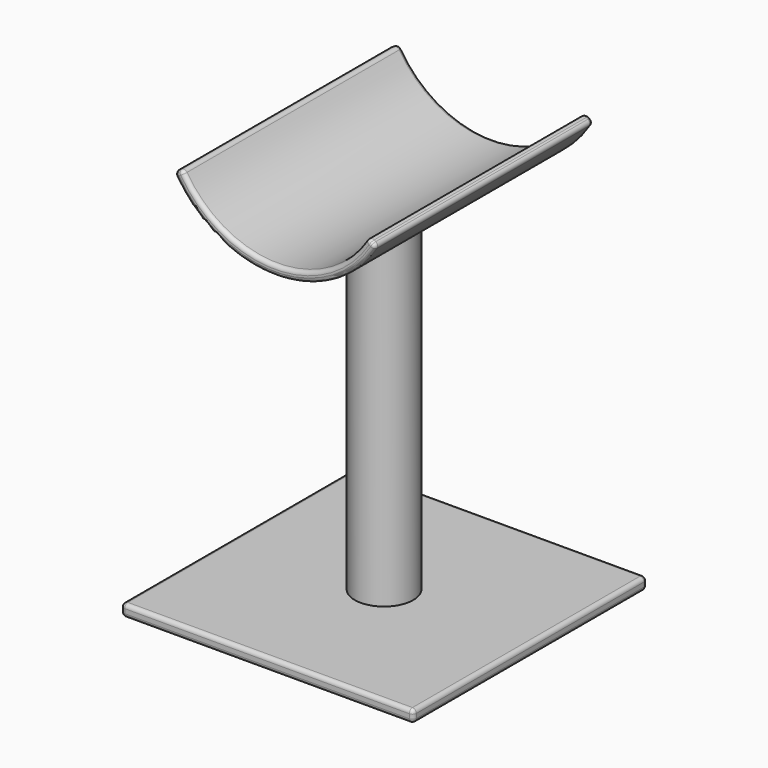
from build123d import *

# Parameters (mm, degrees)
F0_W      = 381
F0_H      = 381
F1_DEPTH  = 15.875
F2_R      = 38.1
F3_DEPTH  = 431.8
F5_DEPTH  = 177.8
F6_R      = 5.08
F7_R      = 5.08
F10_DEPTH = 177.8
F11_R     = 5.08
F12_R     = 5.08


with BuildPart() as f1:
    # F0 (on Top) → F1 (new body)
    with BuildSketch(Plane.XY):
        Rectangle(F0_W, F0_H)
    extrude(amount=F1_DEPTH)

    # F12
    f12_edges = [f1.edges().sort_by_distance(p)[0] for p in [
        (190.5, -190.5, 7.9375),
        (190.5, 190.5, 7.9375),
        (-190.5, -190.5, 7.9375),
        (-190.5, 190.5, 7.9375),
        (190.5, 0, 0),
        (0, 190.5, 0),
        (-190.5, 0, 0),
        (0, -190.5, 0),
        (190.5, 0, 15.875),
        (0, 190.5, 15.875),
        (-190.5, 0, 15.875),
        (0, -190.5, 15.875),
    ]]
    fillet(f12_edges, radius=F12_R)


with BuildPart() as f3:
    # F2 (on face) → F3 (new body)
    with BuildSketch(Plane.XY.offset(15.875)):
        Circle(F2_R)
    extrude(amount=F3_DEPTH)


with BuildPart() as f5:
    # F4 (on Front) → F5 (new body, symmetric)
    with BuildSketch(Plane.XZ):
        with BuildLine():
            ThreePointArc((131.982272, -76.2), (0, -152.4), (-131.982272, -76.2))
            Line((-131.982272, -76.2), (-142.980794, -82.55))
            ThreePointArc((-142.980794, -82.55), (0, -165.1), (142.980794, -82.55))
            Line((142.980794, -82.55), (131.982272, -76.2))
        make_face()
    extrude(amount=F5_DEPTH, both=True)

    # F6
    f6_edges = [f5.edges().sort_by_distance(p)[0] for p in [
        (137.481533, -177.8, -79.375),
        (137.481533, 177.8, -79.375),
        (-137.481533, 177.8, -79.375),
        (-137.481533, -177.8, -79.375),
    ]]
    fillet(f6_edges, radius=F6_R)

    # F7
    f7_edges = [f5.edges().sort_by_distance(p)[0] for p in [
        (131.982272, 0, -76.2),
        (131.231878, 176.312407, -77.485187),
        (131.231878, -176.312407, -77.485187),
        (0, 177.8, -152.4),
        (0, -177.8, -152.4),
        (-131.231878, 176.312407, -77.485187),
        (-131.231878, -176.312407, -77.485187),
        (-131.982272, 0, -76.2),
        (0, 177.8, -165.1),
        (-142.230907, 176.312362, -83.835428),
        (142.230907, 176.312362, -83.835428),
        (-142.980794, 0, -82.55),
        (142.980794, 0, -82.55),
        (-142.230907, -176.312362, -83.835428),
        (142.230907, -176.312362, -83.835428),
        (0, -177.8, -165.1),
    ]]
    fillet(f7_edges, radius=F7_R)


with BuildPart() as f10:
    # F9 (on Front) → F10 (new body, symmetric)
    with BuildSketch(Plane.XZ):
        with BuildLine():
            Line((-120.983739, 530.225005), (-131.982272, 523.875))
            ThreePointArc((-131.982272, 523.875), (0, 447.675), (131.982272, 523.875))
            Line((131.982272, 523.875), (120.983739, 530.225005))
            ThreePointArc((120.983739, 530.225005), (0, 460.375011), (-120.983739, 530.225005))
        make_face()
    extrude(amount=F10_DEPTH, both=True)

    # F11
    f11_edges = [f10.edges().sort_by_distance(p)[0] for p in [
        (126.483005, -177.8, 527.050003),
        (-126.483005, -177.8, 527.050003),
        (126.483005, 177.8, 527.050003),
        (-126.483005, 177.8, 527.050003),
        (0, 177.8, 460.375011),
        (-120.983739, 0, 530.225005),
        (0, -177.8, 460.375011),
        (120.983739, 0, 530.225005),
        (-131.982272, 0, 523.875),
        (0, 177.8, 447.675),
        (131.982272, 0, 523.875),
        (0, -177.8, 447.675),
    ]]
    fillet(f11_edges, radius=F11_R)


solid = Compound([f1.part, f3.part, f10.part])
